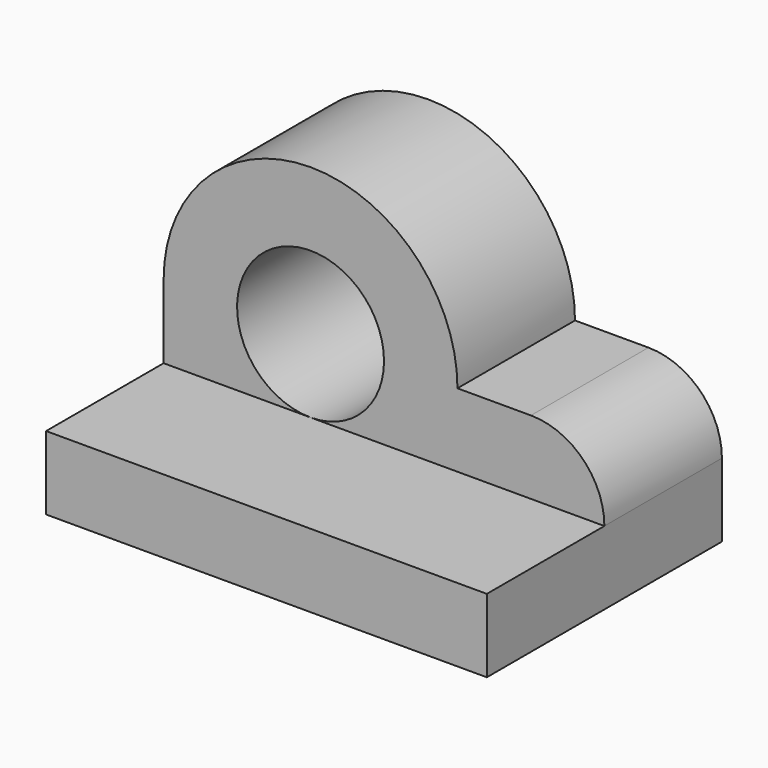
from build123d import *

# Parameters (mm, degrees)
F0_W     = 60
F0_H     = 40
F1_DEPTH = 10
F3_START = -20
F3_DEPTH = 20
F4_R     = 10
F5_DEPTH = 25


with BuildPart() as f1:
    # F0 (on Top) → F1 (new body)
    with BuildSketch(Plane.XY):
        with Locations((30, 20)):
            Rectangle(F0_W, F0_H)
    extrude(amount=F1_DEPTH)

    # F2 (on Front) → F3 (join)
    with BuildSketch(Plane.XZ.offset(F3_START)):
        with BuildLine():
            Line((50, 20), (40, 20))
            ThreePointArc((40, 20), (20, 40), (0, 20))
            Line((0, 20), (0, 10))
            Line((0, 10), (60, 10))
            ThreePointArc((60, 10), (57.0710678119, 17.0710678119), (50, 20))
        make_face()
    extrude(amount=-F3_DEPTH)

    # F4 (on face) → F5 (cut)
    with BuildSketch(Plane.XZ.offset(-20)):
        with Locations((20, 20)):
            Circle(F4_R)
    extrude(amount=-F5_DEPTH, mode=Mode.SUBTRACT)


solid = f1.part
